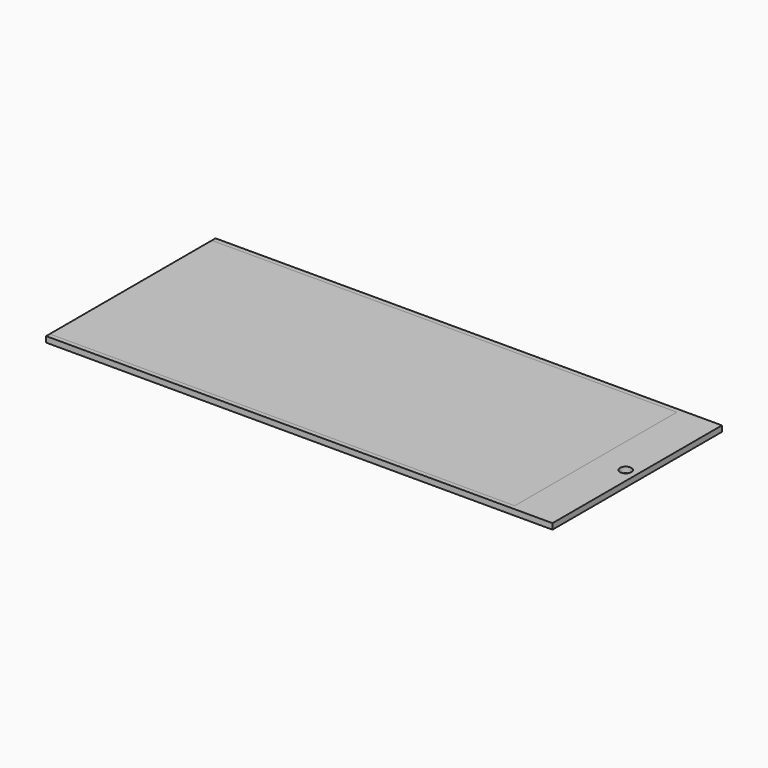
from build123d import *

# Parameters (mm, degrees)
F0_W     = 279.4
F0_H     = 116.84
F1_DEPTH = 3.175
F2_R     = 3.175
F3_DEPTH = 3.176
F4_W     = 256.54
F4_H     = 111.76
F5_DEPTH = 1.5875
F6_DEPTH = 1.5875


with BuildPart() as f1:
    # F0 (on Top) → F1 (new body)
    with BuildSketch(Plane.XY):
        with Locations((139.7, 58.42)):
            Rectangle(F0_W, F0_H)
    extrude(amount=F1_DEPTH)

    # F2 (on face) → F3 (cut, through all)
    with BuildSketch(Plane.XY.offset(3.175)):
        with Locations((273.05, 58.42)):
            Circle(F2_R)
    extrude(amount=-F3_DEPTH, mode=Mode.SUBTRACT)

    # F4 (on face) → F5 (cut)
    with BuildSketch(Plane.XY.offset(3.175)):
        with Locations((128.27, 58.42)):
            Rectangle(F4_W, F4_H)
    extrude(amount=-F5_DEPTH, mode=Mode.SUBTRACT)


with BuildPart() as f6:
    # F4 (on face) → F6 (new body)
    with BuildSketch(Plane.XY.offset(3.175)):
        with Locations((128.27, 58.42)):
            Rectangle(F4_W, F4_H)
    extrude(amount=-F6_DEPTH)


solid = Compound([f1.part, f6.part])
